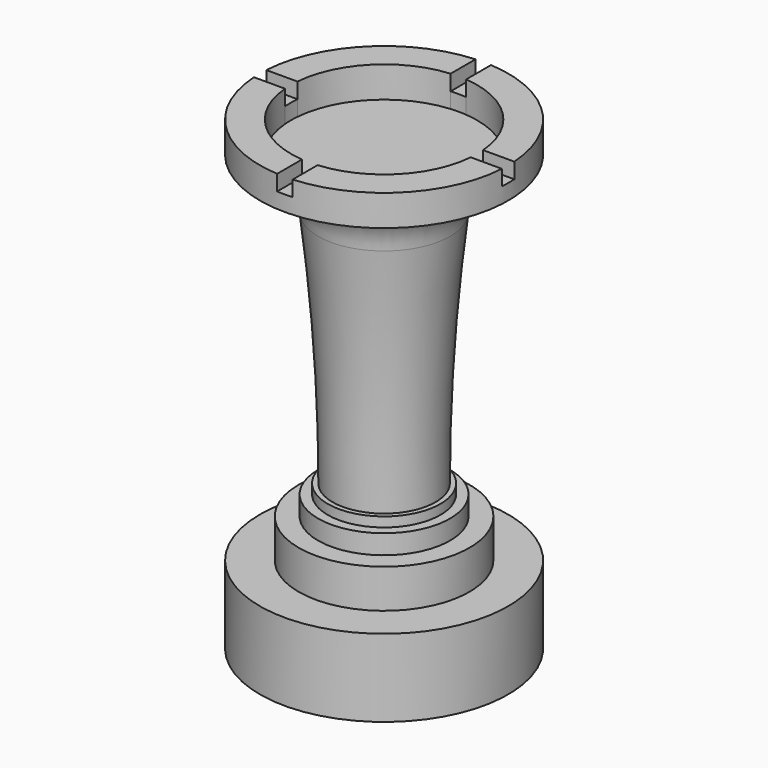
from build123d import *

# Parameters (mm, degrees)
F3_DEPTH = 2.54
F4_DEPTH = 1.27


with BuildPart() as f1:
    # F0 (on Front) → F1 (revolve)
    with BuildSketch(Plane.XZ):
        with BuildLine():
            Line((-10.16, 0), (0, 0))
            Line((0, 0), (0, 38.1))
            Line((0, 38.1), (-10.16, 38.1))
            Line((-10.16, 38.1), (-10.16, 35.56))
            ThreePointArc((-10.16, 35.56), (-6.8363821432, 34.5835975271), (-5.3975, 31.4325))
            ThreePointArc((-5.3975, 31.4325), (-4.5044566757, 21.6875293186), (-4.206875, 11.90625))
            Line((-4.206875, 11.90625), (-4.60375, 11.90625))
            Line((-4.60375, 11.90625), (-4.60375, 11.1125))
            Line((-4.60375, 11.1125), (-5.3975, 11.1125))
            Line((-5.3975, 11.1125), (-5.3975, 9.525))
            Line((-5.3975, 9.525), (-6.985, 9.525))
            Line((-6.985, 9.525), (-6.985, 6.35))
            Line((-6.985, 6.35), (-10.16, 6.35))
            Line((-10.16, 6.35), (-10.16, 0))
        make_face()
    revolve(axis=Axis((0, 0, 19.05), (0, 0, -1)))

    # F2 (on face) → F3 (cut)
    with BuildSketch(Plane.XY.offset(38.1)):
        with BuildLine():
            ThreePointArc((0.635, -7.5934955719), (5.3881536726, -5.3881536726), (7.5934955719, -0.635))
            Line((7.5934955719, -0.635), (0.635, -0.635))
            Line((0.635, -0.635), (0.635, -7.5934955719))
        make_face()
        with BuildLine():
            ThreePointArc((-0.635, -7.5934955719), (0, -7.62), (0.635, -7.5934955719))
            Line((0.635, -7.5934955719), (0.635, -0.635))
            Line((0.635, -0.635), (0, -0.635))
            Line((0, -0.635), (-0.635, -0.635))
            Line((-0.635, -0.635), (-0.635, -7.5934955719))
        make_face()
        with BuildLine():
            ThreePointArc((-7.5934955719, -0.635), (-5.3881536726, -5.3881536726), (-0.635, -7.5934955719))
            Line((-0.635, -7.5934955719), (-0.635, -0.635))
            Line((-0.635, -0.635), (-7.5934955719, -0.635))
        make_face()
        with BuildLine():
            Line((-0.635, 0.635), (-7.5934955719, 0.635))
            ThreePointArc((-7.5934955719, 0.635), (-7.62, 0), (-7.5934955719, -0.635))
            Line((-7.5934955719, -0.635), (-0.635, -0.635))
            Line((-0.635, -0.635), (-0.635, 0))
            Line((-0.635, 0), (-0.635, 0.635))
        make_face()
        with BuildLine():
            Line((-0.635, 0.635), (-0.635, 7.5934955719))
            ThreePointArc((-0.635, 7.5934955719), (-5.3881536726, 5.3881536726), (-7.5934955719, 0.635))
            Line((-7.5934955719, 0.635), (-0.635, 0.635))
        make_face()
        with BuildLine():
            Line((0.635, 0.635), (0.635, 7.5934955719))
            ThreePointArc((0.635, 7.5934955719), (0, 7.62), (-0.635, 7.5934955719))
            Line((-0.635, 7.5934955719), (-0.635, 0.635))
            Line((-0.635, 0.635), (0, 0.635))
            Line((0, 0.635), (0.635, 0.635))
        make_face()
        with BuildLine():
            Line((0.635, 0.635), (7.5934955719, 0.635))
            ThreePointArc((7.5934955719, 0.635), (5.3881536726, 5.3881536726), (0.635, 7.5934955719))
            Line((0.635, 7.5934955719), (0.635, 0.635))
        make_face()
        Polygon((0.635, 0), (0.635, 0.635), (0, 0.635), (-0.635, 0.635), (-0.635, 0), (-0.635, -0.635), (0, -0.635), (0.635, -0.635), align=None)
        with BuildLine():
            ThreePointArc((7.5934955719, -0.635), (7.6133710095, -0.3177764484), (7.62, 0))
            ThreePointArc((7.62, 0), (7.6133710095, 0.3177764484), (7.5934955719, 0.635))
            Line((7.5934955719, 0.635), (0.635, 0.635))
            Line((0.635, 0.635), (0.635, 0))
            Line((0.635, 0), (0.635, -0.635))
            Line((0.635, -0.635), (7.5934955719, -0.635))
        make_face()
    extrude(amount=-F3_DEPTH, mode=Mode.SUBTRACT)

    # F2 (on face) → F4 (cut)
    with BuildSketch(Plane.XY.offset(38.1)):
        with BuildLine():
            ThreePointArc((-7.5934955719, -0.635), (-7.62, 0), (-7.5934955719, 0.635))
            Line((-7.5934955719, 0.635), (-10.1401368334, 0.635))
            ThreePointArc((-10.1401368334, 0.635), (-10.1550329942, 0.3176552949), (-10.16, 0))
            ThreePointArc((-10.16, 0), (-10.1550329942, -0.3176552949), (-10.1401368334, -0.635))
            Line((-10.1401368334, -0.635), (-7.5934955719, -0.635))
        make_face()
        with BuildLine():
            ThreePointArc((-0.635, 7.5934955719), (0, 7.62), (0.635, 7.5934955719))
            Line((0.635, 7.5934955719), (0.635, 10.1401368334))
            ThreePointArc((0.635, 10.1401368334), (0.3176552949, 10.1550329942), (0, 10.16))
            ThreePointArc((0, 10.16), (-0.3176552949, 10.1550329942), (-0.635, 10.1401368334))
            Line((-0.635, 10.1401368334), (-0.635, 7.5934955719))
        make_face()
        with BuildLine():
            ThreePointArc((7.5934955719, 0.635), (7.6133710095, 0.3177764484), (7.62, 0))
            ThreePointArc((7.62, 0), (7.6133710095, -0.3177764484), (7.5934955719, -0.635))
            Line((7.5934955719, -0.635), (10.1401368334, -0.635))
            ThreePointArc((10.1401368334, -0.635), (10.1550329942, -0.3176552949), (10.16, 0))
            ThreePointArc((10.16, 0), (10.1550329942, 0.3176552949), (10.1401368334, 0.635))
            Line((10.1401368334, 0.635), (7.5934955719, 0.635))
        make_face()
        with BuildLine():
            Line((0.635, -10.1401368334), (0.635, -7.5934955719))
            ThreePointArc((0.635, -7.5934955719), (0, -7.62), (-0.635, -7.5934955719))
            Line((-0.635, -7.5934955719), (-0.635, -10.1401368334))
            ThreePointArc((-0.635, -10.1401368334), (-0.3176552949, -10.1550329942), (0, -10.16))
            ThreePointArc((0, -10.16), (0.3176552949, -10.1550329942), (0.635, -10.1401368334))
        make_face()
    extrude(amount=-F4_DEPTH, mode=Mode.SUBTRACT)


solid = f1.part
